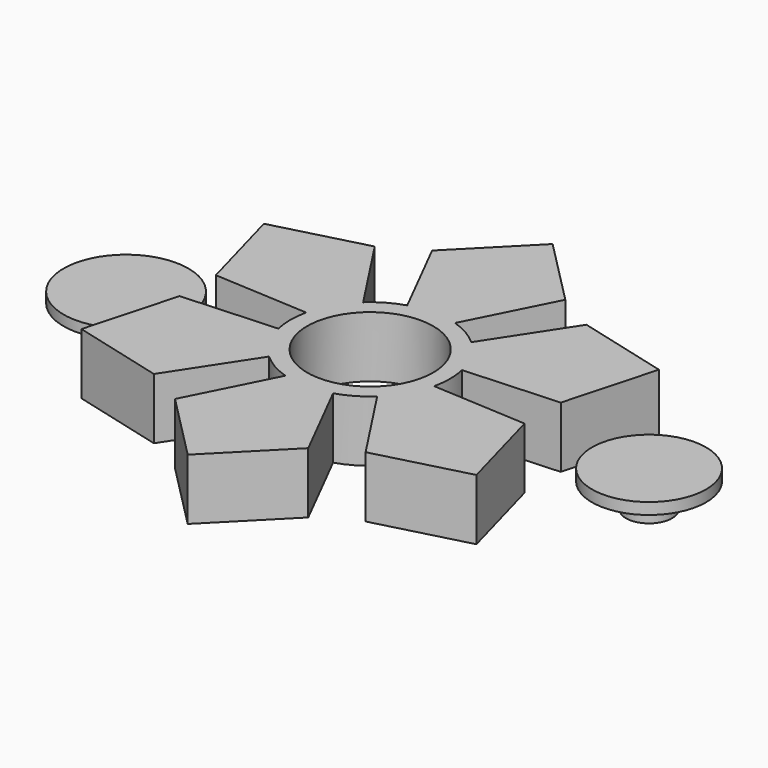
from build123d import *

# Parameters (mm, degrees)
F0_R      = 11.05
F1_DEPTH  = 8.7
F2_R      = 11.05
F3_DEPTH  = 1
F4_R      = 11.05
F5_DEPTH  = 1
F6_R      = 10.95
F7_DEPTH  = 1.8
F8_R      = 4.045
F9_DEPTH  = 3.4
F11_R     = 5.25
F11_R_2   = 4.045
F10_R     = 4.045
F12_DEPTH = 1
F13_R     = 10
F13_R_2   = 5.25
F14_DEPTH = 2


with BuildPart() as f1:
    # F0 (on Top) → F1 (new body)
    with BuildSketch(Plane.XY):
        with BuildLine():
            ThreePointArc((-13.6633067113, 3.0518928083), (-12.124355653, 7), (-9.4746700573, 10.3068243075))
            Line((-9.4746700573, 10.3068243075), (-18.5665997977, 24.2084065057))
            Line((-18.5665997977, 24.2084065057), (-34.6410161514, 20))
            Line((-34.6410161514, 20), (-30.2483949179, 3.9749438338))
            Line((-30.2483949179, 3.9749438338), (-13.6633067113, 3.0518928083))
        make_face()
        Polygon((-30.6176735199, 17.3805912691), (-23.2493732329, 21.9312122028), (-15.6242697579, 17.8253874384), (-15.3674665699, 9.1689417404), (-22.7357668568, 4.6183208068), (-30.3608703318, 8.7241455711), align=None, mode=Mode.SUBTRACT)
        with BuildLine():
            Line((11.6817951202, 28.1833503395), (0, 40))
            Line((0, 40), (-11.6817951202, 28.1833503395))
            Line((-11.6817951202, 28.1833503395), (-4.188636654, 13.3587171158))
            ThreePointArc((-4.188636654, 13.3587171158), (0, 14), (4.188636654, 13.3587171158))
            Line((4.188636654, 13.3587171158), (11.6817951202, 28.1833503395))
        make_face()
        Polygon((7.3683002869, 31.1001539432), (7.625103475, 22.4437082452), (0.2568031881, 17.8930873115), (-7.3683002869, 21.9989120759), (-7.625103475, 30.6553577739), (-0.2568031881, 35.2059787075), align=None, mode=Mode.SUBTRACT)
        with BuildLine():
            Line((18.5665997977, 24.2084065057), (9.4746700573, 10.3068243075))
            ThreePointArc((9.4746700573, 10.3068243075), (12.124355653, 7), (13.6633067113, 3.0518928083))
            Line((13.6633067113, 3.0518928083), (30.2483949179, 3.9749438338))
            Line((30.2483949179, 3.9749438338), (34.6410161514, 20))
            Line((34.6410161514, 20), (18.5665997977, 24.2084065057))
        make_face()
        Polygon((30.3608703318, 17.8253874384), (30.6176735199, 9.1689417404), (23.2493732329, 4.6183208068), (15.6242697579, 8.7241455711), (15.3674665699, 17.3805912691), (22.7357668568, 21.9312122028), align=None, mode=Mode.SUBTRACT)
        with BuildLine():
            Line((30.2483949179, -3.9749438338), (13.6633067113, -3.0518928083))
            ThreePointArc((13.6633067113, -3.0518928083), (12.124355653, -7), (9.4746700573, -10.3068243075))
            Line((9.4746700573, -10.3068243075), (18.5665997977, -24.2084065057))
            Line((18.5665997977, -24.2084065057), (34.6410161514, -20))
            Line((34.6410161514, -20), (30.2483949179, -3.9749438338))
        make_face()
        Polygon((30.6176735199, -17.3805912691), (23.2493732329, -21.9312122028), (15.6242697579, -17.8253874384), (15.3674665699, -9.1689417404), (22.7357668568, -4.6183208068), (30.3608703318, -8.7241455711), align=None, mode=Mode.SUBTRACT)
        with BuildLine():
            ThreePointArc((4.188636654, -13.3587171158), (0, -14), (-4.188636654, -13.3587171158))
            Line((-4.188636654, -13.3587171158), (-11.6817951202, -28.1833503395))
            Line((-11.6817951202, -28.1833503395), (0, -40))
            Line((0, -40), (11.6817951202, -28.1833503395))
            Line((11.6817951202, -28.1833503395), (4.188636654, -13.3587171158))
        make_face()
        Polygon((0.2568031881, -35.2059787075), (-7.3683002869, -31.1001539432), (-7.625103475, -22.4437082452), (-0.2568031881, -17.8930873115), (7.3683002869, -21.9989120759), (7.625103475, -30.6553577739), align=None, mode=Mode.SUBTRACT)
        with BuildLine():
            ThreePointArc((-9.4746700573, -10.3068243075), (-12.124355653, -7), (-13.6633067113, -3.0518928083))
            Line((-13.6633067113, -3.0518928083), (-30.2483949179, -3.9749438338))
            Line((-30.2483949179, -3.9749438338), (-34.6410161514, -20))
            Line((-34.6410161514, -20), (-18.5665997977, -24.2084065057))
            Line((-18.5665997977, -24.2084065057), (-9.4746700573, -10.3068243075))
        make_face()
        Polygon((-30.3608703318, -17.8253874384), (-30.6176735199, -9.1689417404), (-23.2493732329, -4.6183208068), (-15.6242697579, -8.7241455711), (-15.3674665699, -17.3805912691), (-22.7357668568, -21.9312122028), align=None, mode=Mode.SUBTRACT)
        with BuildLine():
            ThreePointArc((4.188636654, 13.3587171158), (0, 14), (-4.188636654, 13.3587171158))
            ThreePointArc((-4.188636654, 13.3587171158), (-7, 12.124355653), (-9.4746700573, 10.3068243075))
            ThreePointArc((-9.4746700573, 10.3068243075), (-12.124355653, 7), (-13.6633067113, 3.0518928083))
            ThreePointArc((-13.6633067113, 3.0518928083), (-14, 0), (-13.6633067113, -3.0518928083))
            ThreePointArc((-13.6633067113, -3.0518928083), (-12.124355653, -7), (-9.4746700573, -10.3068243075))
            ThreePointArc((-9.4746700573, -10.3068243075), (-7, -12.124355653), (-4.188636654, -13.3587171158))
            ThreePointArc((-4.188636654, -13.3587171158), (0, -14), (4.188636654, -13.3587171158))
            ThreePointArc((4.188636654, -13.3587171158), (7, -12.124355653), (9.4746700573, -10.3068243075))
            ThreePointArc((9.4746700573, -10.3068243075), (12.124355653, -7), (13.6633067113, -3.0518928083))
            ThreePointArc((13.6633067113, -3.0518928083), (13.9155721039, -1.5352045535), (14, 0))
            ThreePointArc((14, 0), (13.9155721039, 1.5352045535), (13.6633067113, 3.0518928083))
            ThreePointArc((13.6633067113, 3.0518928083), (12.124355653, 7), (9.4746700573, 10.3068243075))
            ThreePointArc((9.4746700573, 10.3068243075), (7, 12.124355653), (4.188636654, 13.3587171158))
        make_face()
        Circle(F0_R, mode=Mode.SUBTRACT)
    extrude(amount=F1_DEPTH)

    # F2 (on face) → F3 (join)
    with BuildSketch(Plane.XY.offset(8.7)):
        with BuildLine():
            Line((-18.5665997977, 24.2084065057), (-34.6410161514, 20))
            Line((-34.6410161514, 20), (-30.2483949179, 3.9749438338))
            Line((-30.2483949179, 3.9749438338), (-13.6633067113, 3.0518928083))
            ThreePointArc((-13.6633067113, 3.0518928083), (-12.124355653, 7), (-9.4746700573, 10.3068243075))
            Line((-9.4746700573, 10.3068243075), (-18.5665997977, 24.2084065057))
        make_face()
        with BuildLine():
            ThreePointArc((-9.4746700573, 10.3068243075), (-12.124355653, 7), (-13.6633067113, 3.0518928083))
            ThreePointArc((-13.6633067113, 3.0518928083), (-14, 0), (-13.6633067113, -3.0518928083))
            ThreePointArc((-13.6633067113, -3.0518928083), (-12.124355653, -7), (-9.4746700573, -10.3068243075))
            ThreePointArc((-9.4746700573, -10.3068243075), (-7, -12.124355653), (-4.188636654, -13.3587171158))
            ThreePointArc((-4.188636654, -13.3587171158), (0, -14), (4.188636654, -13.3587171158))
            ThreePointArc((4.188636654, -13.3587171158), (7, -12.124355653), (9.4746700573, -10.3068243075))
            ThreePointArc((9.4746700573, -10.3068243075), (12.124355653, -7), (13.6633067113, -3.0518928083))
            ThreePointArc((13.6633067113, -3.0518928083), (13.9155721039, -1.5352045535), (14, 0))
            ThreePointArc((14, 0), (13.9155721039, 1.5352045535), (13.6633067113, 3.0518928083))
            ThreePointArc((13.6633067113, 3.0518928083), (12.124355653, 7), (9.4746700573, 10.3068243075))
            ThreePointArc((9.4746700573, 10.3068243075), (7, 12.124355653), (4.188636654, 13.3587171158))
            ThreePointArc((4.188636654, 13.3587171158), (0, 14), (-4.188636654, 13.3587171158))
            ThreePointArc((-4.188636654, 13.3587171158), (-7, 12.124355653), (-9.4746700573, 10.3068243075))
        make_face()
        Circle(F2_R, mode=Mode.SUBTRACT)
        with BuildLine():
            ThreePointArc((-9.4746700573, -10.3068243075), (-12.124355653, -7), (-13.6633067113, -3.0518928083))
            Line((-13.6633067113, -3.0518928083), (-30.2483949179, -3.9749438338))
            Line((-30.2483949179, -3.9749438338), (-34.6410161514, -20))
            Line((-34.6410161514, -20), (-18.5665997977, -24.2084065057))
            Line((-18.5665997977, -24.2084065057), (-9.4746700573, -10.3068243075))
        make_face()
        with BuildLine():
            Line((-11.6817951202, 28.1833503395), (-4.188636654, 13.3587171158))
            ThreePointArc((-4.188636654, 13.3587171158), (0, 14), (4.188636654, 13.3587171158))
            Line((4.188636654, 13.3587171158), (11.6817951202, 28.1833503395))
            Line((11.6817951202, 28.1833503395), (0, 40))
            Line((0, 40), (-11.6817951202, 28.1833503395))
        make_face()
        with BuildLine():
            ThreePointArc((4.188636654, -13.3587171158), (0, -14), (-4.188636654, -13.3587171158))
            Line((-4.188636654, -13.3587171158), (-11.6817951202, -28.1833503395))
            Line((-11.6817951202, -28.1833503395), (0, -40))
            Line((0, -40), (11.6817951202, -28.1833503395))
            Line((11.6817951202, -28.1833503395), (4.188636654, -13.3587171158))
        make_face()
        with BuildLine():
            Line((18.5665997977, 24.2084065057), (9.4746700573, 10.3068243075))
            ThreePointArc((9.4746700573, 10.3068243075), (12.124355653, 7), (13.6633067113, 3.0518928083))
            Line((13.6633067113, 3.0518928083), (30.2483949179, 3.9749438338))
            Line((30.2483949179, 3.9749438338), (34.6410161514, 20))
            Line((34.6410161514, 20), (18.5665997977, 24.2084065057))
        make_face()
        with BuildLine():
            ThreePointArc((13.6633067113, -3.0518928083), (12.124355653, -7), (9.4746700573, -10.3068243075))
            Line((9.4746700573, -10.3068243075), (18.5665997977, -24.2084065057))
            Line((18.5665997977, -24.2084065057), (34.6410161514, -20))
            Line((34.6410161514, -20), (30.2483949179, -3.9749438338))
            Line((30.2483949179, -3.9749438338), (13.6633067113, -3.0518928083))
        make_face()
    extrude(amount=F3_DEPTH)

    # F4 (on face) → F5 (join)
    with BuildSketch(Plane(origin=(0, 0, 0), x_dir=(1, 0, 0), z_dir=(0, 0, -1))):
        with BuildLine():
            ThreePointArc((13.6633067113, -3.0518928083), (13.9155721039, -1.5352045535), (14, 0))
            ThreePointArc((14, 0), (13.9155721039, 1.5352045535), (13.6633067113, 3.0518928083))
            ThreePointArc((13.6633067113, 3.0518928083), (12.124355653, 7), (9.4746700573, 10.3068243075))
            ThreePointArc((9.4746700573, 10.3068243075), (7, 12.124355653), (4.188636654, 13.3587171158))
            ThreePointArc((4.188636654, 13.3587171158), (0, 14), (-4.188636654, 13.3587171158))
            ThreePointArc((-4.188636654, 13.3587171158), (-7, 12.124355653), (-9.4746700573, 10.3068243075))
            ThreePointArc((-9.4746700573, 10.3068243075), (-12.124355653, 7), (-13.6633067113, 3.0518928083))
            ThreePointArc((-13.6633067113, 3.0518928083), (-14, 0), (-13.6633067113, -3.0518928083))
            ThreePointArc((-13.6633067113, -3.0518928083), (-12.124355653, -7), (-9.4746700573, -10.3068243075))
            ThreePointArc((-9.4746700573, -10.3068243075), (-7, -12.124355653), (-4.188636654, -13.3587171158))
            ThreePointArc((-4.188636654, -13.3587171158), (0, -14), (4.188636654, -13.3587171158))
            ThreePointArc((4.188636654, -13.3587171158), (7, -12.124355653), (9.4746700573, -10.3068243075))
            ThreePointArc((9.4746700573, -10.3068243075), (12.124355653, -7), (13.6633067113, -3.0518928083))
        make_face()
        Circle(F4_R, mode=Mode.SUBTRACT)
        with BuildLine():
            ThreePointArc((-13.6633067113, 3.0518928083), (-12.124355653, 7), (-9.4746700573, 10.3068243075))
            Line((-9.4746700573, 10.3068243075), (-18.5665997977, 24.2084065057))
            Line((-18.5665997977, 24.2084065057), (-34.6410161514, 20))
            Line((-34.6410161514, 20), (-30.2483949179, 3.9749438338))
            Line((-30.2483949179, 3.9749438338), (-13.6633067113, 3.0518928083))
        make_face()
        Polygon((-30.3608703318, 17.8253874384), (-22.7357668568, 21.9312122028), (-15.3674665699, 17.3805912691), (-15.6242697579, 8.7241455711), (-23.2493732329, 4.6183208068), (-30.6176735199, 9.1689417404), align=None, mode=Mode.SUBTRACT)
        with BuildLine():
            ThreePointArc((-4.188636654, 13.3587171158), (0, 14), (4.188636654, 13.3587171158))
            Line((4.188636654, 13.3587171158), (11.6817951202, 28.1833503395))
            Line((11.6817951202, 28.1833503395), (0, 40))
            Line((0, 40), (-11.6817951202, 28.1833503395))
            Line((-11.6817951202, 28.1833503395), (-4.188636654, 13.3587171158))
        make_face()
        Polygon((-7.3683002869, 31.1001539432), (0.2568031881, 35.2059787075), (7.625103475, 30.6553577739), (7.3683002869, 21.9989120759), (-0.2568031881, 17.8930873115), (-7.625103475, 22.4437082452), align=None, mode=Mode.SUBTRACT)
        with BuildLine():
            ThreePointArc((9.4746700573, 10.3068243075), (12.124355653, 7), (13.6633067113, 3.0518928083))
            Line((13.6633067113, 3.0518928083), (30.2483949179, 3.9749438338))
            Line((30.2483949179, 3.9749438338), (34.6410161514, 20))
            Line((34.6410161514, 20), (18.5665997977, 24.2084065057))
            Line((18.5665997977, 24.2084065057), (9.4746700573, 10.3068243075))
        make_face()
        Polygon((23.2493732329, 21.9312122028), (30.6176735199, 17.3805912691), (30.3608703318, 8.7241455711), (22.7357668568, 4.6183208068), (15.3674665699, 9.1689417404), (15.6242697579, 17.8253874384), align=None, mode=Mode.SUBTRACT)
        with BuildLine():
            Line((-18.5665997977, -24.2084065057), (-9.4746700573, -10.3068243075))
            ThreePointArc((-9.4746700573, -10.3068243075), (-12.124355653, -7), (-13.6633067113, -3.0518928083))
            Line((-13.6633067113, -3.0518928083), (-30.2483949179, -3.9749438338))
            Line((-30.2483949179, -3.9749438338), (-34.6410161514, -20))
            Line((-34.6410161514, -20), (-18.5665997977, -24.2084065057))
        make_face()
        Polygon((-15.6242697579, -17.8253874384), (-23.2493732329, -21.9312122028), (-30.6176735199, -17.3805912691), (-30.3608703318, -8.7241455711), (-22.7357668568, -4.6183208068), (-15.3674665699, -9.1689417404), align=None, mode=Mode.SUBTRACT)
        with BuildLine():
            Line((11.6817951202, -28.1833503395), (4.188636654, -13.3587171158))
            ThreePointArc((4.188636654, -13.3587171158), (0, -14), (-4.188636654, -13.3587171158))
            Line((-4.188636654, -13.3587171158), (-11.6817951202, -28.1833503395))
            Line((-11.6817951202, -28.1833503395), (0, -40))
            Line((0, -40), (11.6817951202, -28.1833503395))
        make_face()
        Polygon((7.625103475, -22.4437082452), (7.3683002869, -31.1001539432), (-0.2568031881, -35.2059787075), (-7.625103475, -30.6553577739), (-7.3683002869, -21.9989120759), (0.2568031881, -17.8930873115), align=None, mode=Mode.SUBTRACT)
        with BuildLine():
            Line((30.2483949179, -3.9749438338), (13.6633067113, -3.0518928083))
            ThreePointArc((13.6633067113, -3.0518928083), (12.124355653, -7), (9.4746700573, -10.3068243075))
            Line((9.4746700573, -10.3068243075), (18.5665997977, -24.2084065057))
            Line((18.5665997977, -24.2084065057), (34.6410161514, -20))
            Line((34.6410161514, -20), (30.2483949179, -3.9749438338))
        make_face()
        Polygon((30.3608703318, -17.8253874384), (22.7357668568, -21.9312122028), (15.3674665699, -17.3805912691), (15.6242697579, -8.7241455711), (23.2493732329, -4.6183208068), (30.6176735199, -9.1689417404), align=None, mode=Mode.SUBTRACT)
        Polygon((30.3608703318, 8.7241455711), (30.6176735199, 17.3805912691), (23.2493732329, 21.9312122028), (15.6242697579, 17.8253874384), (15.3674665699, 9.1689417404), (22.7357668568, 4.6183208068), align=None)
        Polygon((7.625103475, 30.6553577739), (0.2568031881, 35.2059787075), (-7.3683002869, 31.1001539432), (-7.625103475, 22.4437082452), (-0.2568031881, 17.8930873115), (7.3683002869, 21.9989120759), align=None)
        Polygon((-15.3674665699, 17.3805912691), (-22.7357668568, 21.9312122028), (-30.3608703318, 17.8253874384), (-30.6176735199, 9.1689417404), (-23.2493732329, 4.6183208068), (-15.6242697579, 8.7241455711), align=None)
        Polygon((-30.6176735199, -17.3805912691), (-23.2493732329, -21.9312122028), (-15.6242697579, -17.8253874384), (-15.3674665699, -9.1689417404), (-22.7357668568, -4.6183208068), (-30.3608703318, -8.7241455711), align=None)
        Polygon((-0.2568031881, -35.2059787075), (7.3683002869, -31.1001539432), (7.625103475, -22.4437082452), (0.2568031881, -17.8930873115), (-7.3683002869, -21.9989120759), (-7.625103475, -30.6553577739), align=None)
        Polygon((15.3674665699, -17.3805912691), (22.7357668568, -21.9312122028), (30.3608703318, -17.8253874384), (30.6176735199, -9.1689417404), (23.2493732329, -4.6183208068), (15.6242697579, -8.7241455711), align=None)
    extrude(amount=F5_DEPTH)


with BuildPart() as f7:
    # F6 (on Top) → F7 (new body)
    with BuildSketch(Plane.XY):
        with Locations((-46.2999908872, 4.3557849514)):
            Circle(F6_R)
    extrude(amount=F7_DEPTH)


with BuildPart() as f9:
    # F8 (on Top) → F9 (new body)
    with BuildSketch(Plane.XY):
        with Locations((47.907628119, 1.2492160313)):
            Circle(F8_R)
    extrude(amount=F9_DEPTH)

    # F11 (on face) + F10 (on face) → F12 (join)
    with BuildSketch(Plane.XY.offset(3.4)):
        with Locations((47.907628119, 1.2492160313)):
            Circle(F11_R)
        with Locations((47.907628119, 1.2492160313)):
            Circle(F11_R_2, mode=Mode.SUBTRACT)
    with BuildSketch(Plane.XY.offset(3.4)):
        with Locations((47.907628119, 1.2492160313)):
            Circle(F10_R)
    extrude(amount=F12_DEPTH)

    # F13 (on face) → F14 (join)
    with BuildSketch(Plane.XY.offset(4.4)):
        with Locations((47.907628119, 1.2492160313)):
            Circle(F13_R)
        with Locations((47.907628119, 1.2492160313)):
            Circle(F13_R_2, mode=Mode.SUBTRACT)
        with Locations((47.907628119, 1.2492160313)):
            Circle(F13_R_2)
    extrude(amount=F14_DEPTH)


solid = Compound([f1.part, f7.part, f9.part])
